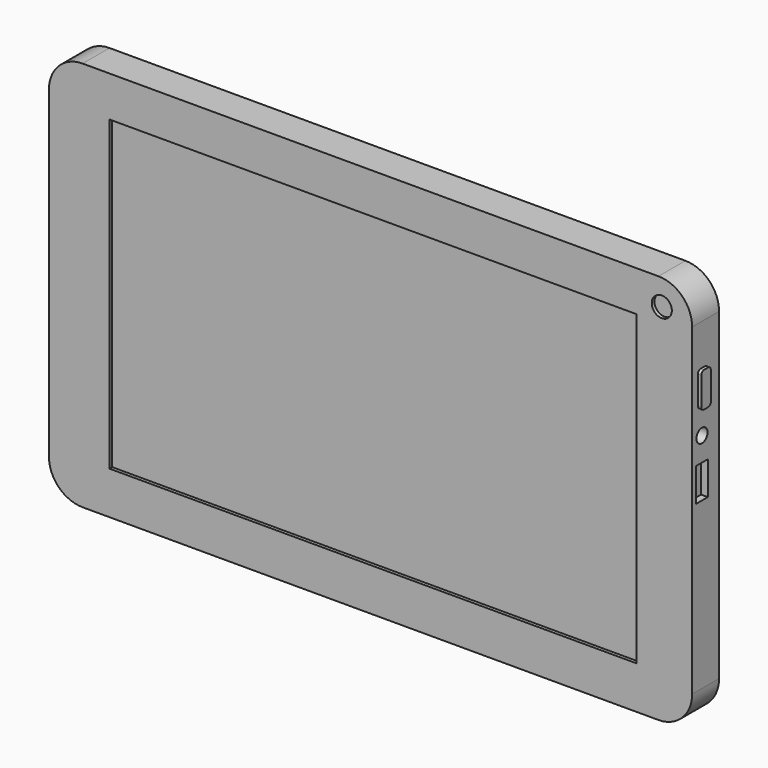
from build123d import *

# Parameters (mm, degrees)
F1_DEPTH  = 5
F2_W      = 156.496823
F2_H      = 91.289811
F2_R      = 2.986594
F3_DEPTH  = 1
F4_DEPTH  = 1
F6_DEPTH  = 1
F7_R      = 2.053092
F8_DEPTH  = 15
F9_W      = 4.116406
F9_H      = 9.901583
F10_DEPTH = 2
F11_W     = 4.423767
F11_H     = 9.900813
F12_DEPTH = 2


with BuildPart() as f1:
    # F0 (on Front) → F1 (new body, symmetric)
    with BuildSketch(Plane.XZ):
        with BuildLine():
            Line((85.5, 58), (-85.5, 58))
            ThreePointArc((-85.5, 58), (-92.571068, 55.071068), (-95.5, 48))
            Line((-95.5, 48), (-95.5, -48))
            ThreePointArc((-95.5, -48), (-92.571068, -55.071068), (-85.5, -58))
            Line((-85.5, -58), (85.5, -58))
            ThreePointArc((85.5, -58), (92.571068, -55.071068), (95.5, -48))
            Line((95.5, -48), (95.5, 48))
            ThreePointArc((95.5, 48), (92.571068, 55.071068), (85.5, 58))
        make_face()
    extrude(amount=F1_DEPTH, both=True)

    # F2 (on face) → F3 (cut)
    with BuildSketch(Plane.XZ.offset(5)):
        with Locations((0.742533, 0.334394)):
            Rectangle(F2_W, F2_H)
        with Locations((86.493112, 50.336968)):
            Circle(F2_R)
    extrude(amount=-F3_DEPTH, mode=Mode.SUBTRACT)

    # F2 (on face) → F4 (cut)
    with BuildSketch(Plane.XZ.offset(5)):
        with Locations((0.742533, 0.334394)):
            Rectangle(F2_W, F2_H)
        with Locations((86.493112, 50.336968)):
            Circle(F2_R)
    extrude(amount=-F4_DEPTH, mode=Mode.SUBTRACT)

    # F5 (on face) → F6 (join)
    with BuildSketch(Plane.YZ.offset(95.5)):
        with BuildLine():
            Line((-0.305085, 35.823516), (-1.833566, 35.823516))
            ThreePointArc((-1.833566, 35.823516), (-2.540673, 35.530623), (-2.833566, 34.823516))
            Line((-2.833566, 34.823516), (-2.833566, 26.449343))
            ThreePointArc((-2.833566, 26.449343), (-2.540673, 25.742236), (-1.833566, 25.449343))
            Line((-1.833566, 25.449343), (-0.305085, 25.449343))
            ThreePointArc((-0.305085, 25.449343), (0.402022, 25.742236), (0.694915, 26.449343))
            Line((0.694915, 26.449343), (0.694915, 34.823516))
            ThreePointArc((0.694915, 34.823516), (0.402022, 35.530623), (-0.305085, 35.823516))
        make_face()
    extrude(amount=F6_DEPTH)

    # F7 (on face) → F8 (cut)
    with BuildSketch(Plane.YZ.offset(95.5)):
        with Locations((-1.342217, 18.141782)):
            Circle(F7_R)
    extrude(amount=-F8_DEPTH, mode=Mode.SUBTRACT)

    # F9 (on face) → F10 (cut)
    with BuildSketch(Plane.YZ.offset(95.5)):
        with Locations((-1.26129, 6.061323)):
            Rectangle(F9_W, F9_H)
    extrude(amount=F10_DEPTH, mode=Mode.SUBTRACT)

    # F11 (on face) → F12 (cut)
    with BuildSketch(Plane.YZ.offset(95.5)):
        with Locations((-1.390659, 6.107518)):
            Rectangle(F11_W, F11_H)
    extrude(amount=-F12_DEPTH, mode=Mode.SUBTRACT)


solid = f1.part
